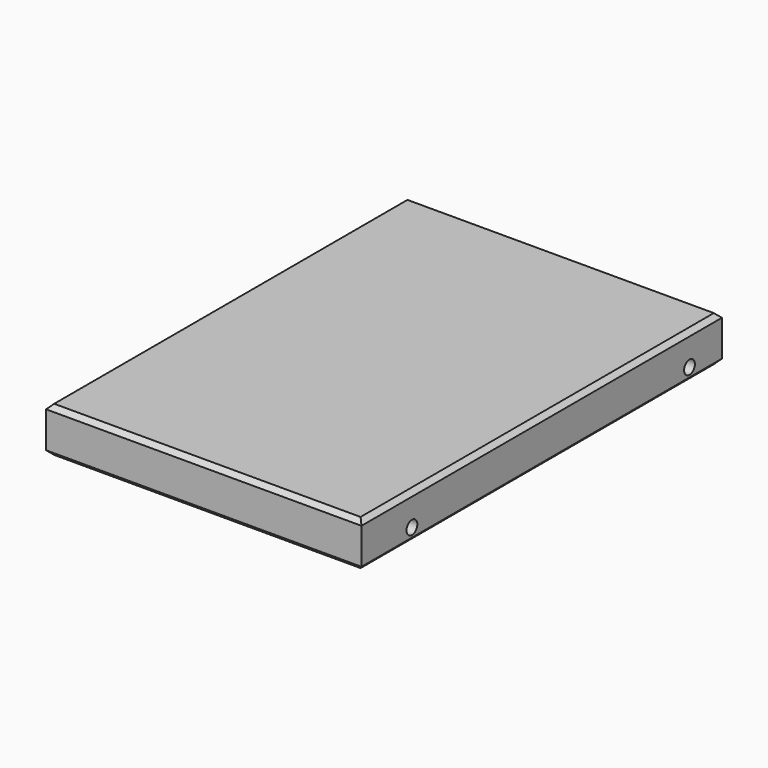
from build123d import *

# Parameters (mm, degrees)
SKETCH056_W             = 70
SKETCH056_H             = 100
PAD018_DEPTH            = 10
SKETCH057_R             = 1.5
POCKET038_DEPTH         = 70.001
CHAMFER005_SIZE         = 1
BODY014_PLACEMENT_ANGLE = 180


with BuildPart() as part:
    # Sketch056 → Pad018 (new body)
    with BuildSketch(Plane.XY):
        Rectangle(SKETCH056_W, SKETCH056_H)
    extrude(amount=PAD018_DEPTH)

    # Sketch057 (on Face3 of Pad018) → Pocket038 (cut, through all)
    with BuildSketch(Plane.YZ.offset(35)):
        with Locations((36, 3)):
            Circle(SKETCH057_R)
        with Locations((-41, 3)):
            Circle(SKETCH057_R)
    extrude(amount=-POCKET038_DEPTH, mode=Mode.SUBTRACT)

    # Chamfer005
    chamfer005_edges = [part.edges().sort_by_distance(p)[0] for p in [
        (-35, 0, 0),
        (0, -50, 0),
        (35, 0, 0),
        (0, 50, 0),
        (-35, 0, 10),
        (0, -50, 10),
        (35, 0, 10),
        (0, 50, 10),
    ]]
    chamfer(chamfer005_edges, length=CHAMFER005_SIZE)


with BuildPart() as part_1:
    # Body014 placement: moved
    add(part.part.moved(Location((63.5, 55.3, 40.5))).rotate(Axis((63.5, 55.3, 40.5), (0, 0, 1)), BODY014_PLACEMENT_ANGLE))


solid = part_1.part
